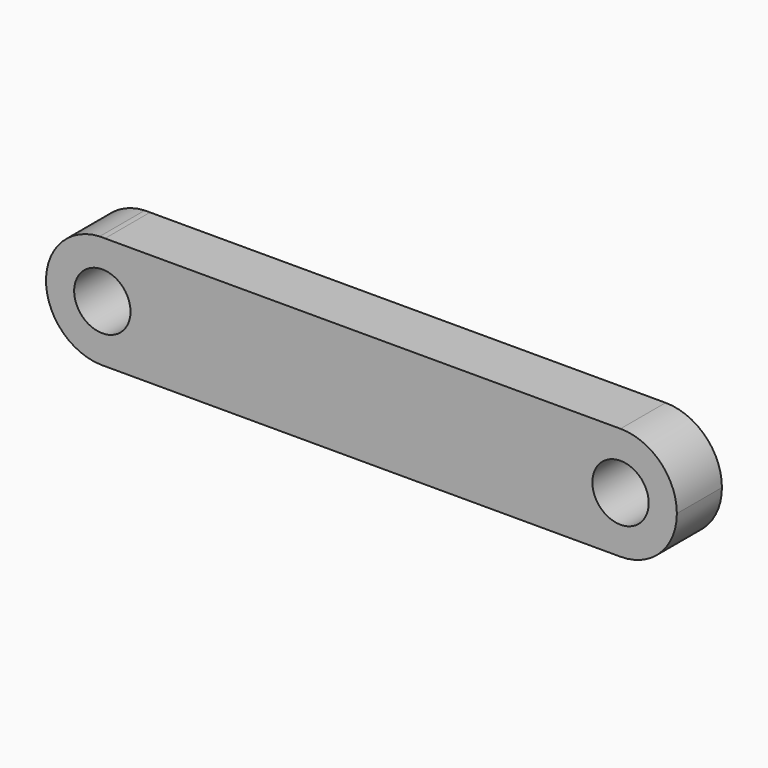
from build123d import *

# Parameters (mm, degrees)
F0_R     = 3.175
F1_DEPTH = 6.35


with BuildPart() as f1:
    # F0 (on Front) → F1 (new body)
    with BuildSketch(Plane.XZ):
        with BuildLine():
            Line((-69.325059, 6.342968), (-69.924132, 6.342895))
            ThreePointArc((-69.924132, 6.342895), (-75.973483, -0.066136), (-69.791951, -6.347774))
            Line((-69.791951, -6.347774), (-69.456187, -6.347787))
            ThreePointArc((-69.456187, -6.347787), (-65.074816, -4.430462), (-63.273828, 0))
            ThreePointArc((-63.273828, 0), (-65.029283, 4.383225), (-69.325059, 6.342968))
        make_face()
        with Locations((-69.623828, 0)):
            Circle(F0_R, mode=Mode.SUBTRACT)
        with BuildLine():
            ThreePointArc((-69.325059, 6.342968), (-69.624596, 6.35), (-69.924132, 6.342895))
            Line((-69.924132, 6.342895), (-69.325059, 6.342968))
        make_face()
        with BuildLine():
            Line((-69.456187, -6.347787), (-69.791951, -6.347774))
            ThreePointArc((-69.791951, -6.347774), (-69.624069, -6.35), (-69.456187, -6.347787))
        make_face()
        with BuildLine():
            Line((-11.204596, 6.35), (-69.325059, 6.342968))
            ThreePointArc((-69.325059, 6.342968), (-65.029283, 4.383225), (-63.273828, 0))
            ThreePointArc((-63.273828, 0), (-65.074816, -4.430462), (-69.456187, -6.347787))
            Line((-69.456187, -6.347787), (-11.204069, -6.35))
            ThreePointArc((-11.204069, -6.35), (-17.553828, -0.000264), (-11.204596, 6.35))
        make_face()
        with BuildLine():
            ThreePointArc((-4.853828, 0), (-6.713971, 4.4904), (-11.204596, 6.35))
            ThreePointArc((-11.204596, 6.35), (-17.553828, -0.000264), (-11.204069, -6.35))
            ThreePointArc((-11.204069, -6.35), (-6.713785, -4.490213), (-4.853828, 0))
        make_face()
        with Locations((-11.203828, 0)):
            Circle(F0_R, mode=Mode.SUBTRACT)
    extrude(amount=F1_DEPTH)


solid = f1.part
